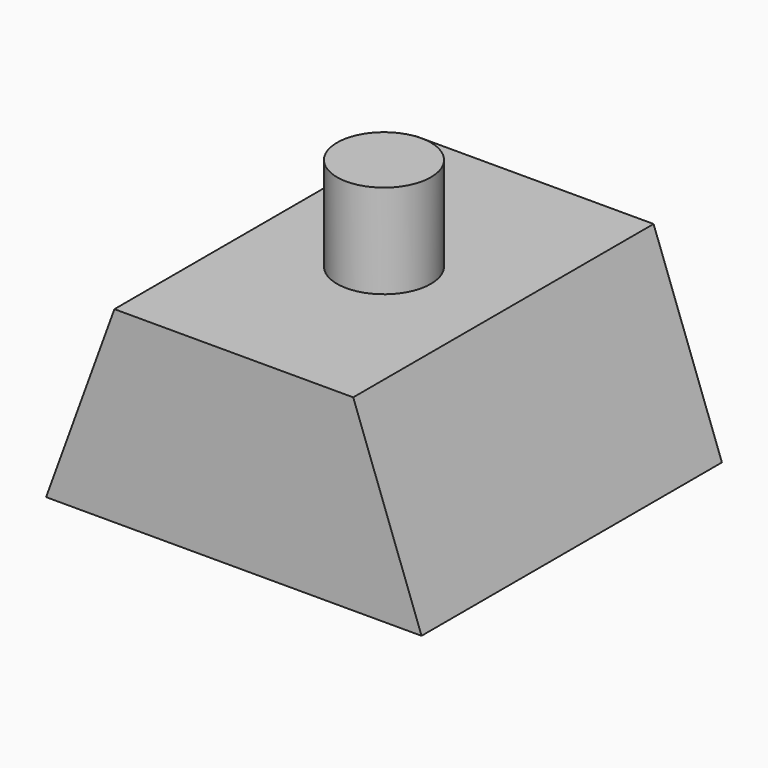
from build123d import *

# Parameters (mm, degrees)
F1_DEPTH = 20
F2_R     = 2.5
F3_DEPTH = 15


with BuildPart() as f1:
    # F0 (on Front) → F1 (new body)
    with BuildSketch(Plane.XZ):
        Polygon((-20, 0), (0, 0), (-3.64, 10), (-16.36, 10), align=None)
    extrude(amount=F1_DEPTH)

    # F2 (on Top) → F3 (join)
    with BuildSketch(Plane.XY):
        with Locations((-10, -10)):
            Circle(F2_R)
    extrude(amount=F3_DEPTH)


solid = f1.part
